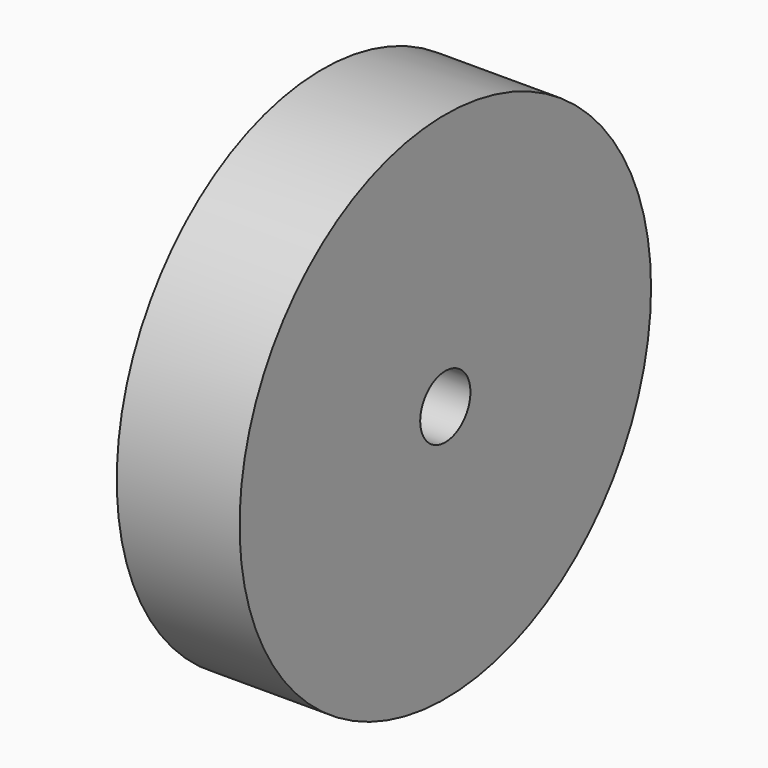
from build123d import *

# Parameters (mm, degrees)
F0_R     = 15.953883
F1_DEPTH = 7.62
F2_R     = 1.948638
F3_DEPTH = 25.4


with BuildPart() as f1:
    # F0 (on Right) → F1 (new body)
    with BuildSketch(Plane.YZ):
        Circle(F0_R)
    extrude(amount=F1_DEPTH)

    # F2 (on face) → F3 (cut)
    with BuildSketch(Plane(origin=(0, 0, 0), x_dir=(0, -1, 0), z_dir=(-1, 0, 0))):
        Circle(F2_R)
    extrude(amount=-F3_DEPTH, mode=Mode.SUBTRACT)


solid = f1.part
